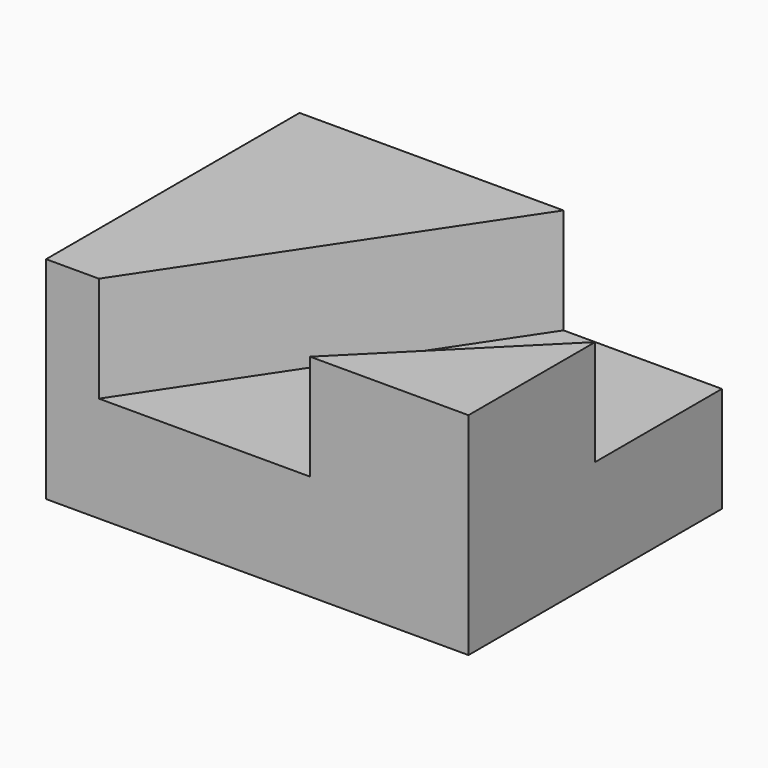
from build123d import *

# Parameters (mm, degrees)
F0_W     = 50.8
F0_H     = 25.4
F1_DEPTH = 38.1
F3_DEPTH = 12.7


with BuildPart() as f1:
    # F0 (on Front) → F1 (new body)
    with BuildSketch(Plane.XZ):
        with Locations((25.4, 12.7)):
            Rectangle(F0_W, F0_H)
    extrude(amount=-F1_DEPTH)

    # F2 (on face) → F3 (cut)
    with BuildSketch(Plane.XY.offset(25.4)):
        Polygon((31.75, 38.1), (6.35, 0), (31.75, 0), (50.8, 19.05), (50.8, 38.1), align=None)
    extrude(amount=-F3_DEPTH, mode=Mode.SUBTRACT)


solid = f1.part
